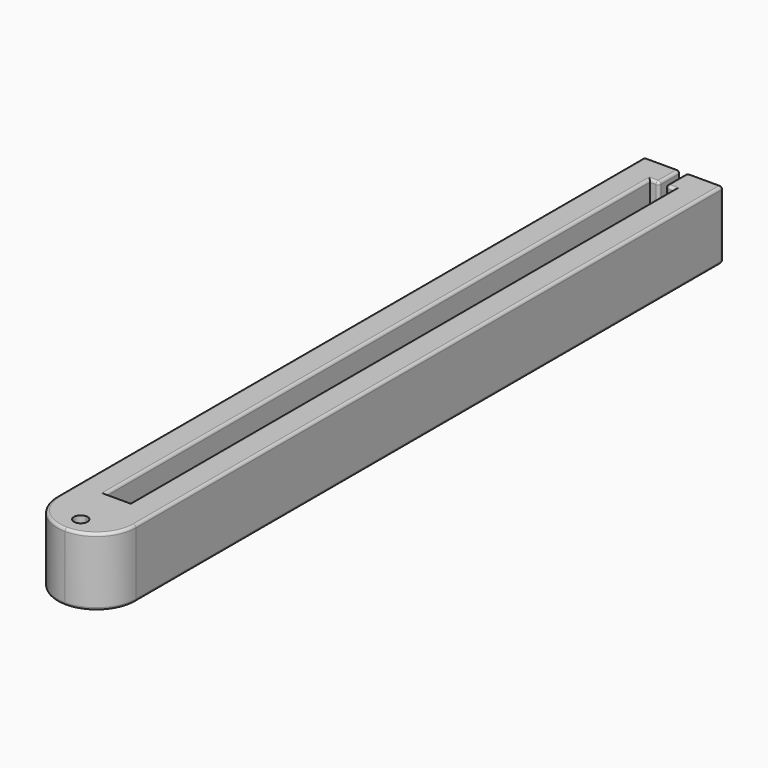
from build123d import *

# Parameters (mm, degrees)
F0_W     = 1.8
F0_H     = 50
F1_DEPTH = 5
F2_W     = 0.5
F2_H     = 5
F3_DEPTH = 2
F4_R     = 0.2
F5_DEPTH = 1


with BuildPart() as f1:
    # F0 (on Top) → F1 (new body)
    with BuildSketch(Plane.XY):
        Polygon((2, -2), (2, 52), (-3.8, 52), (-3.8, -2), (-0.9, -2), align=None)
        with Locations((-0.9, 25)):
            Rectangle(F0_W, F0_H, mode=Mode.SUBTRACT)
        with BuildLine():
            ThreePointArc((-0.9, -4.9), (1.1506096654, -4.0506096654), (2, -2))
            Line((2, -2), (-0.9, -2))
            Line((-0.9, -2), (-0.9, -2.95))
            ThreePointArc((-0.9, -2.95), (-0.5464466094, -3.0964466094), (-0.4, -3.45))
            ThreePointArc((-0.4, -3.45), (-0.5464466094, -3.8035533906), (-0.9, -3.95))
            Line((-0.9, -3.95), (-0.9, -4.9))
        make_face()
        with BuildLine():
            Line((-0.9, -2.95), (-0.9, -2))
            Line((-0.9, -2), (-3.8, -2))
            ThreePointArc((-3.8, -2), (-2.9506096654, -4.0506096654), (-0.9, -4.9))
            Line((-0.9, -4.9), (-0.9, -3.95))
            ThreePointArc((-0.9, -3.95), (-1.4, -3.45), (-0.9, -2.95))
        make_face()
    extrude(amount=F1_DEPTH)

    # F2 (on face) → F3 (cut)
    with BuildSketch(Plane(origin=(0, 52, 0), x_dir=(-1, 0, 0), z_dir=(0, 1, 0))):
        with Locations((0.9, 2.5)):
            Rectangle(F2_W, F2_H)
    extrude(amount=-F3_DEPTH, mode=Mode.SUBTRACT)

    # F4
    f4_edges = [f1.edges().sort_by_distance(p)[0] for p in [
        (2, 52, 2.5),
        (0.675, 52, 0),
        (0.675, 52, 5),
        (-2.475, 52, 5),
        (-3.8, 52, 2.5),
        (-2.475, 52, 0),
        (-0.65, 52, 2.5),
        (-1.15, 52, 2.5),
        (-1.15, 51, 5),
        (-0.65, 51, 5),
        (-0.65, 51, 0),
        (-1.15, 51, 0),
        (-1.475, 50, 0),
        (-1.15, 50, 2.5),
        (-0.325, 50, 0),
        (-0.65, 50, 2.5),
        (-1.475, 50, 5),
        (-0.325, 50, 5),
        (2, 25, 5),
        (2, 25, 0),
        (-1.8, 25, 5),
        (-1.8, 25, 0),
        (0, 25, 5),
        (0, 25, 0),
        (-0.9, 0, 0),
        (-0.9, 0, 5),
    ]]
    fillet(f4_edges, radius=F4_R)

    # F5 (cut): faces of the model
    f5_faces = [f1.faces().sort_by_distance(p)[0] for p in [
        (-2.475, 52, 2.5),
        (0.675, 52, 2.5),
    ]]
    extrude(f5_faces, amount=-F5_DEPTH, mode=Mode.SUBTRACT)


solid = f1.part
